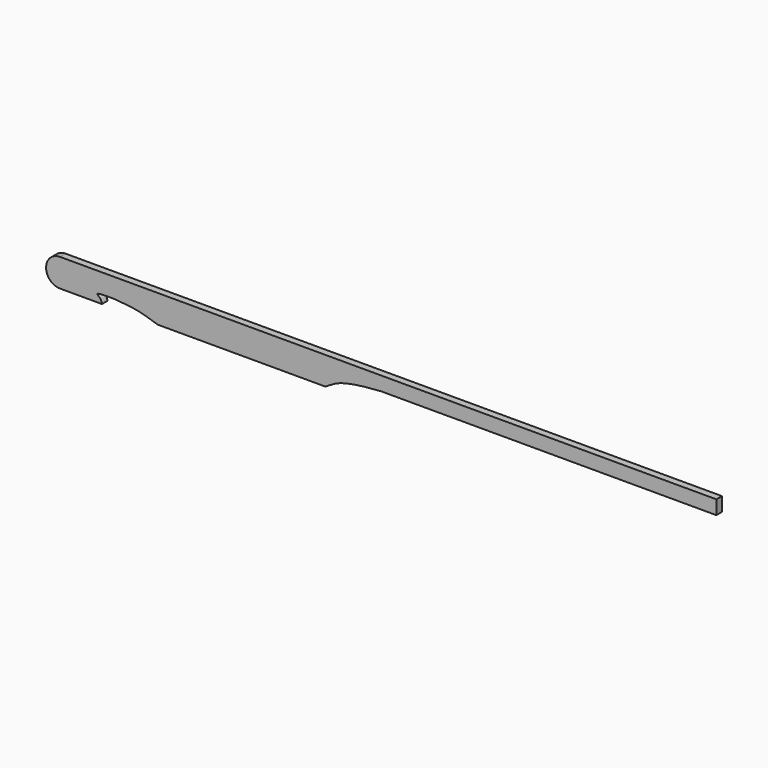
from build123d import *

# Parameters (mm, degrees)
F1_DEPTH = 3.175


with BuildPart() as f1:
    # F0 (on Front) → F1 (new body)
    with BuildSketch(Plane.XZ):
        with BuildLine():
            ThreePointArc((-124.0466453115, 4.6299422654), (-130.3966453115, -1.7200577346), (-124.0466453115, -8.0700577346))
            Line((-124.0466453115, -8.0700577346), (-104.9966453115, -8.0700577346))
            add(Edge.make_bspline(
                [(-104.9966453115, -8.0700577346), (-105.1639170277, -7.2660732846), (-105.4726019909, -5.7975840455), (-109.4854702435, -3.9629912716), (-91.6041154549, -4.0314484321), (-83.6423224258, -6.7089477629), (-79.5966453115, -8.0700577346)],
                knots=[0, 0, 0, 0, 0.1503536624, 0.2747026573, 0.6313151624, 1, 1, 1, 1], degree=3))
            Line((-79.5966453115, -8.0700577346), (-3.3966453115, -8.0700577346))
            add(Edge.make_bspline(
                [(-3.3966453115, -8.0700577346), (-1.5550055277, -6.8746711067), (2.5131882277, -4.2318946589), (12.5727652724, -2.3965636923), (18.8860163738, -1.9437447184), (22.0033546885, -1.7200577346)],
                knots=[0, 0, 0, 0, 0.2948834849, 0.6517461609, 1, 1, 1, 1], degree=3))
            Line((22.0033546885, -1.7200577346), (174.4033546885, -1.7200577346))
            Line((174.4033546885, -1.7200577346), (174.4033546885, 4.6299422654))
            Line((174.4033546885, 4.6299422654), (-124.0466453115, 4.6299422654))
        make_face()
    extrude(amount=F1_DEPTH)


solid = f1.part
